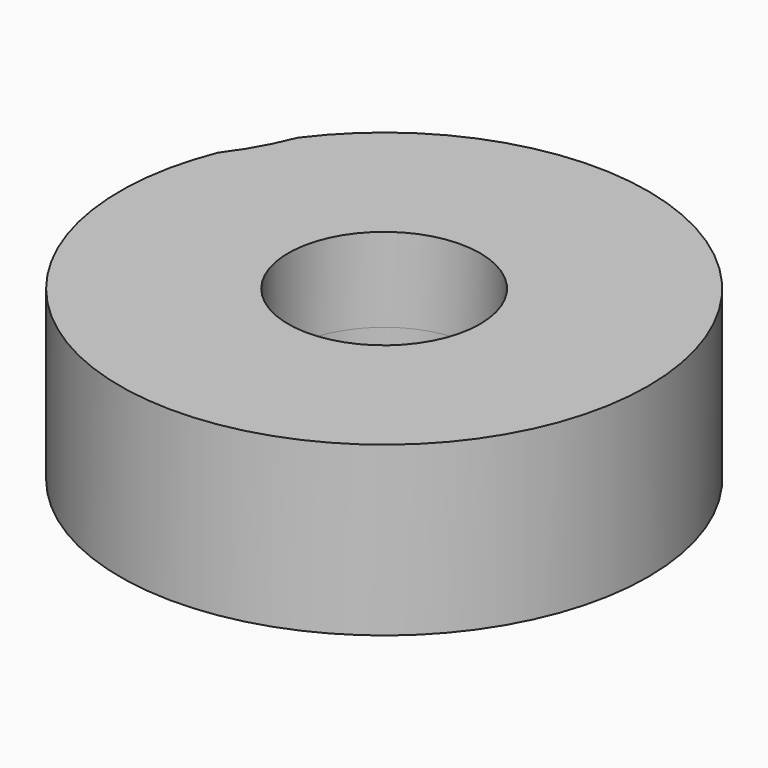
from build123d import *

# Parameters (mm, degrees)
F0_R     = 4
F1_DEPTH = 3.5


with BuildPart() as f1:
    # F0 (on Top) → F1 (new body, symmetric)
    with BuildSketch(Plane.XY):
        with BuildLine():
            ThreePointArc((11, 0), (3.4478206991, 10.4456944445), (-8.8386422595, 6.5481602767))
            add(Edge.make_bspline(
                [(-8.8386422595, 6.5481602767), (-9.1759660011, 5.6743077307), (-9.6312475501, 4.8630918417), (-10.2057419587, 4.1040018364)],
                knots=[0.3997656882, 0.3997656882, 0.3997656882, 0.3997656882, 0.4737844352, 0.4737844352, 0.4737844352, 0.4737844352], degree=3))
            ThreePointArc((-10.2057419587, 4.1040018364), (-2.0900763688, -10.7996102139), (11, 0))
        make_face()
        Circle(F0_R, mode=Mode.SUBTRACT)
    extrude(amount=F1_DEPTH, both=True)


solid = f1.part
